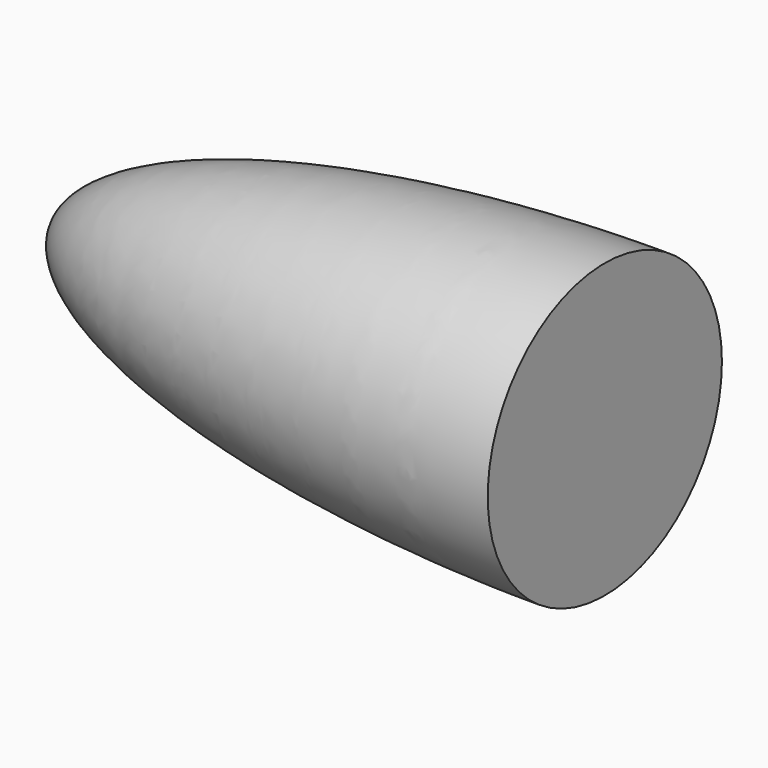
from build123d import *


with BuildPart() as f1:
    # F0 (on Top) → F1 (revolve)
    with BuildSketch(Plane.XY):
        with BuildLine():
            Line((0, 0), (0, 7.5))
            add(Edge.make_bspline(
                [(0, 7.5), (-28, 7.5), (-28, 0)],
                knots=[1.5707963268, 1.5707963268, 1.5707963268, 3.1415926536, 3.1415926536, 3.1415926536], degree=2, weights=[1, 0.7071067812, 1]))
            Line((-28, 0), (0, 0))
        make_face()
    revolve(axis=Axis((-2.411659807, 0, 0), (1, 0, 0)))


solid = f1.part
